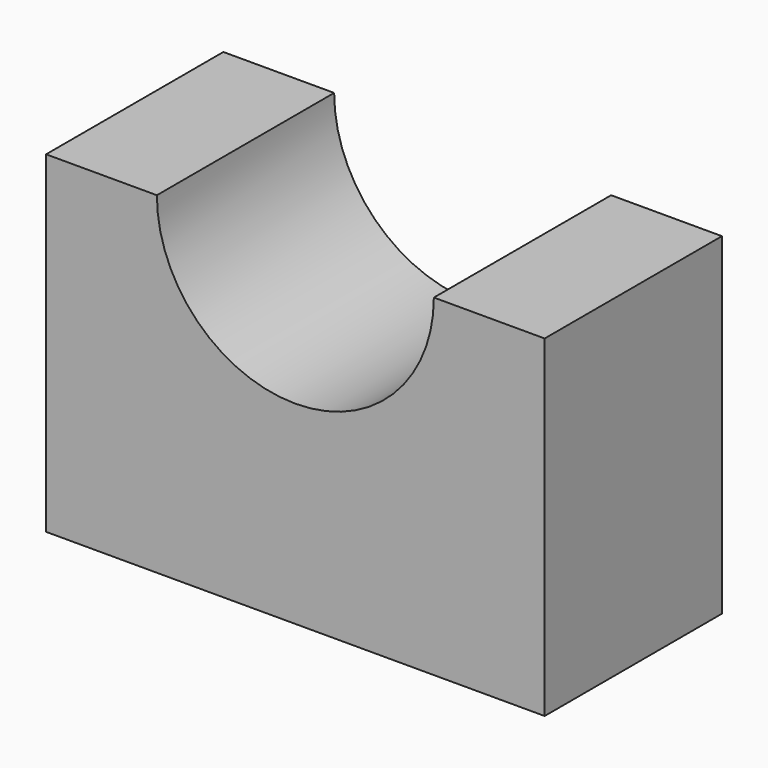
from build123d import *

# Parameters (mm, degrees)
F1_DEPTH = 25.4
F3_DEPTH = 25.401


with BuildPart() as f1:
    # F0 (on Front) → F1 (new body)
    with BuildSketch(Plane.XZ):
        with BuildLine():
            ThreePointArc((-44.45, 38.1), (-28.575, 22.225), (-12.7, 38.1))
            Line((-12.7, 38.1), (-44.45, 38.1))
        make_face()
        with BuildLine():
            Line((-57.15, 0), (0, 0))
            Line((0, 0), (0, 38.1))
            Line((0, 38.1), (-12.7, 38.1))
            ThreePointArc((-12.7, 38.1), (-28.575, 22.225), (-44.45, 38.1))
            Line((-44.45, 38.1), (-57.15, 38.1))
            Line((-57.15, 38.1), (-57.15, 0))
        make_face()
    extrude(amount=F1_DEPTH)

    # F2 (on face) → F3 (cut, through all)
    with BuildSketch(Plane.XZ.offset(25.4)):
        with BuildLine():
            Line((-12.7, 38.1), (-44.45, 38.1))
            ThreePointArc((-44.45, 38.1), (-28.575, 22.225), (-12.7, 38.1))
        make_face()
    extrude(amount=-F3_DEPTH, mode=Mode.SUBTRACT)


solid = f1.part
